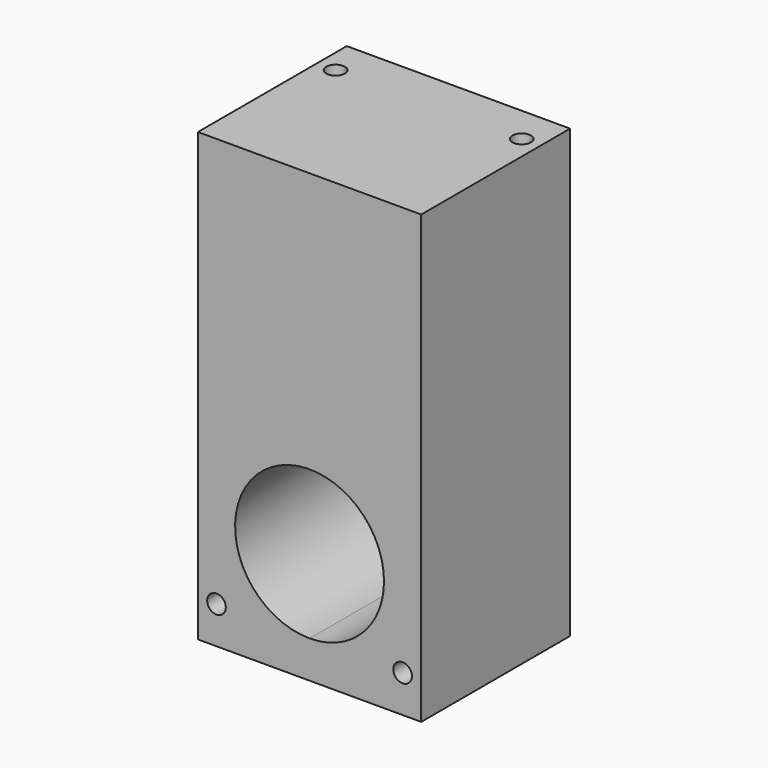
from build123d import *

# Parameters (mm, degrees)
F0_R     = 1.5875
F1_DEPTH = 31.75
F2_DEPTH = 25.4
F3_R     = 1.5875
F3_R_2   = 0.79375
F4_DEPTH = 69.85
F5_DEPTH = 69.85


with BuildPart() as f1:
    # F0 (on Front) → F1 (new body)
    with BuildSketch(Plane.XZ):
        with BuildLine():
            ThreePointArc((-14.2875, -31.75), (-15.875, -30.1625), (-17.4625, -31.75))
            ThreePointArc((-17.4625, -31.75), (-15.875, -33.3375), (-14.2875, -31.75))
        make_face()
        with BuildLine():
            ThreePointArc((12.7, -19.05), (-8.980256, -10.069744), (0, -31.75))
            ThreePointArc((0, -31.75), (8.980256, -28.030256), (12.7, -19.05))
        make_face()
        with Locations((15.875, -31.75)):
            Circle(F0_R)
        Polygon((19.05, -31.75), (19.05, 38.1), (-19.05, 38.1), (-19.05, -31.75), (-19.05, -38.1), (0, -38.1), (19.05, -38.1), align=None)
        with BuildLine():
            ThreePointArc((-14.2875, -31.75), (-15.875, -33.3375), (-17.4625, -31.75))
            ThreePointArc((-17.4625, -31.75), (-15.875, -30.1625), (-14.2875, -31.75))
        make_face(mode=Mode.SUBTRACT)
        with Locations((15.875, -31.75)):
            Circle(F0_R, mode=Mode.SUBTRACT)
        with BuildLine():
            ThreePointArc((12.7, -19.05), (8.980256, -28.030256), (0, -31.75))
            ThreePointArc((0, -31.75), (-8.980256, -10.069744), (12.7, -19.05))
        make_face(mode=Mode.SUBTRACT)
        with BuildLine():
            ThreePointArc((12.7, -19.05), (-8.980256, -10.069744), (0, -31.75))
            ThreePointArc((0, -31.75), (8.980256, -28.030256), (12.7, -19.05))
        make_face()
    extrude(amount=-F1_DEPTH)

    # F0 (on Front) → F2 (cut)
    with BuildSketch(Plane.XZ):
        with BuildLine():
            ThreePointArc((12.7, -19.05), (-8.980256, -10.069744), (0, -31.75))
            ThreePointArc((0, -31.75), (8.980256, -28.030256), (12.7, -19.05))
        make_face()
    extrude(amount=-F2_DEPTH, mode=Mode.SUBTRACT)

    # F3 (on face) → F4 (cut)
    with BuildSketch(Plane.XY.offset(38.1)):
        with Locations((15.875, 25.4)):
            Circle(F3_R)
        with Locations((15.875, 25.4)):
            Circle(F3_R_2, mode=Mode.SUBTRACT)
        with Locations((15.875, 25.4)):
            Circle(F3_R_2)
        with BuildLine():
            ThreePointArc((-14.2875, 25.4), (-15.875, 26.9875), (-17.4625, 25.4))
            ThreePointArc((-17.4625, 25.4), (-15.875, 23.8125), (-14.2875, 25.4))
        make_face()
        with BuildLine():
            ThreePointArc((-15.08125, 25.4), (-15.875, 24.60625), (-16.66875, 25.4))
            ThreePointArc((-16.66875, 25.4), (-15.875, 26.19375), (-15.08125, 25.4))
        make_face(mode=Mode.SUBTRACT)
        with BuildLine():
            ThreePointArc((-15.08125, 25.4), (-15.875, 26.19375), (-16.66875, 25.4))
            ThreePointArc((-16.66875, 25.4), (-15.875, 24.60625), (-15.08125, 25.4))
        make_face()
    extrude(amount=-F4_DEPTH, mode=Mode.SUBTRACT)

    # F3 (on face) → F5 (cut)
    with BuildSketch(Plane.XY.offset(38.1)):
        with BuildLine():
            ThreePointArc((-15.08125, 25.4), (-15.875, 26.19375), (-16.66875, 25.4))
            ThreePointArc((-16.66875, 25.4), (-15.875, 24.60625), (-15.08125, 25.4))
        make_face()
        with Locations((15.875, 25.4)):
            Circle(F3_R_2)
    extrude(amount=-F5_DEPTH, mode=Mode.SUBTRACT)


solid = f1.part
